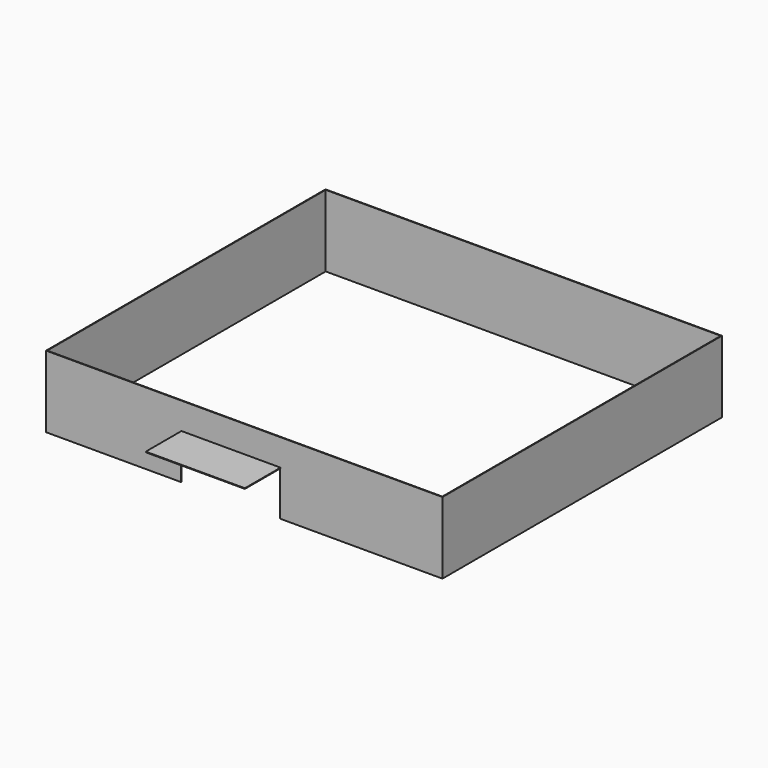
from build123d import *

# Parameters (mm, degrees)
F0_W     = 2032
F0_H     = 1790.7
F1_DEPTH = 368.3
F2_W     = 2025.65
F2_H     = 1784.35
F3_DEPTH = 368.3
F4_W     = 508
F4_H     = 228.6
F5_DEPTH = 25.4
F7_W     = 508
F7_H     = 228.6
F8_DEPTH = 3.175


with BuildPart() as f1:
    # F0 (on Top) → F1 (new body)
    with BuildSketch(Plane.XY):
        with Locations((-59.571021, 252.033191)):
            Rectangle(F0_W, F0_H)
    extrude(amount=F1_DEPTH)

    # F2 (on face) → F3 (cut)
    with BuildSketch(Plane.XY.offset(368.3)):
        with Locations((-59.571021, 252.033191)):
            Rectangle(F2_W, F2_H)
    extrude(amount=-F3_DEPTH, mode=Mode.SUBTRACT)

    # F4 (on face) → F5 (cut)
    with BuildSketch(Plane.XZ.offset(643.316809)):
        with Locations((-129.324785, 114.3)):
            Rectangle(F4_W, F4_H)
    extrude(amount=-F5_DEPTH, mode=Mode.SUBTRACT)


with BuildPart() as f8:
    # F7 (on offset) → F8 (new body)
    with BuildSketch(Plane.XY.offset(228.6)):
        with Locations((-126.923097, -758.489281)):
            Rectangle(F7_W, F7_H)
    extrude(amount=F8_DEPTH)


solid = Compound([f1.part, f8.part])
